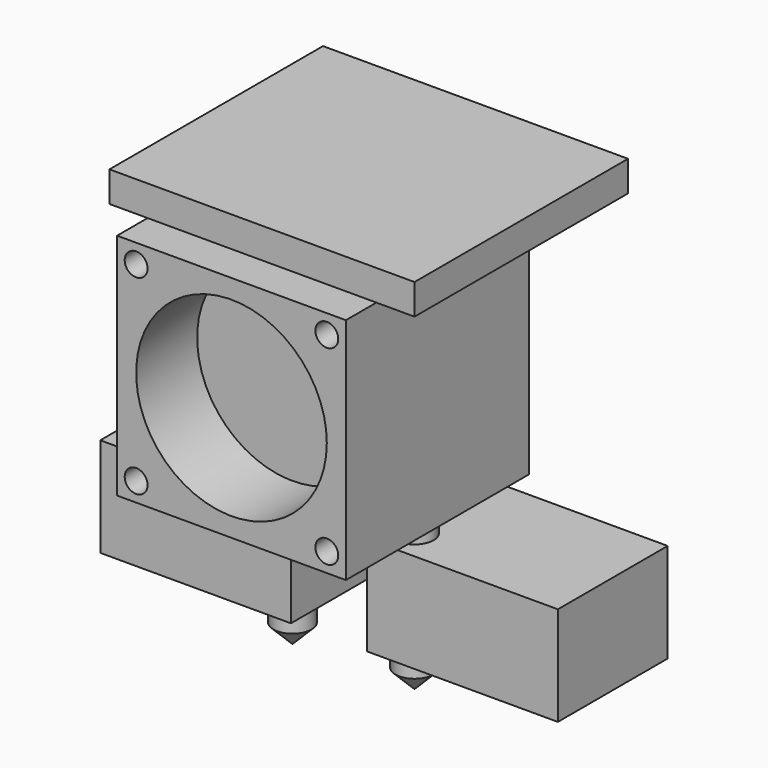
from build123d import *

# Parameters (mm, degrees)
F0_W      = 40
F0_H      = 35
F1_DEPTH  = 4
F2_W      = 30
F2_H      = 20
F3_DEPTH  = 30
F4_W      = 30
F4_H      = 30
F5_DEPTH  = 10
F6_R      = 1.5
F6_R_2    = 12.5
F7_DEPTH  = 10
F8_R      = 2.5
F9_DEPTH  = 5
F10_W     = 25
F10_H     = 18
F11_DEPTH = 13
F12_R     = 2.5
F13_DEPTH = 5
F14_SIZE  = 2.5


with BuildPart() as f1:
    # F0 (on Top) → F1 (new body)
    with BuildSketch(Plane.XY):
        with Locations((0, 17.5)):
            Rectangle(F0_W, F0_H)
    extrude(amount=F1_DEPTH)



with BuildPart() as f3:
    # F2 (on face) → F3 (new body)
    with BuildSketch(Plane(origin=(0, 0, 0), x_dir=(1, 0, 0), z_dir=(0, 0, -1))):
        with Locations((0, -15)):
            Rectangle(F2_W, F2_H)
    extrude(amount=F3_DEPTH)

    # F8 (on face) → F9 (join)
    with BuildSketch(Plane(origin=(0, 0, -30), x_dir=(1, 0, 0), z_dir=(0, 0, -1))):
        with Locations((-8, -15)):
            Circle(F8_R)
        with Locations((8, -15)):
            Circle(F8_R)
    extrude(amount=F9_DEPTH)

    # F10 (on face) → F11 (join)
    with BuildSketch(Plane(origin=(0, 0, -35), x_dir=(1, 0, 0), z_dir=(0, 0, -1))):
        with Locations((17.5, -20)):
            Rectangle(F10_W, F10_H)
        with Locations((-17.5, -20)):
            Rectangle(F10_W, F10_H)
    extrude(amount=F11_DEPTH)


with BuildPart() as f5:
    # F4 (on face) → F5 (new body)
    with BuildSketch(Plane.XZ.offset(-5)):
        with Locations((0, -15)):
            Rectangle(F4_W, F4_H)
    extrude(amount=F5_DEPTH)

    # F6 (on face) → F7 (cut, through all)
    with BuildSketch(Plane.XZ.offset(5)):
        with Locations((-12.5, -2.5)):
            Circle(F6_R)
        with Locations((0, -15)):
            Circle(F6_R_2)
        with Locations((12.5, -2.5)):
            Circle(F6_R)
        with Locations((-12.5, -27.5)):
            Circle(F6_R)
        with Locations((12.5, -27.5)):
            Circle(F6_R)
    extrude(amount=-F7_DEPTH, mode=Mode.SUBTRACT)


with BuildPart() as f1_1:
    add(f1.part)

    add(f3.part)  # F13 merges F3

    add(f5.part)  # F13 merges F5
    # F12 (on face) → F13 (join)
    with BuildSketch(Plane(origin=(0, 0, -48), x_dir=(1, 0, 0), z_dir=(0, 0, -1))):
        with Locations((8, -15)):
            Circle(F12_R)
        with Locations((-8, -15)):
            Circle(F12_R)
    extrude(amount=F13_DEPTH)

    # F14
    f14_edges = [f1_1.edges().sort_by_distance(p)[0] for p in [
        (-10.5, 15, -53),
        (5.5, 15, -53),
    ]]
    chamfer(f14_edges, length=F14_SIZE)


solid = f1_1.part
